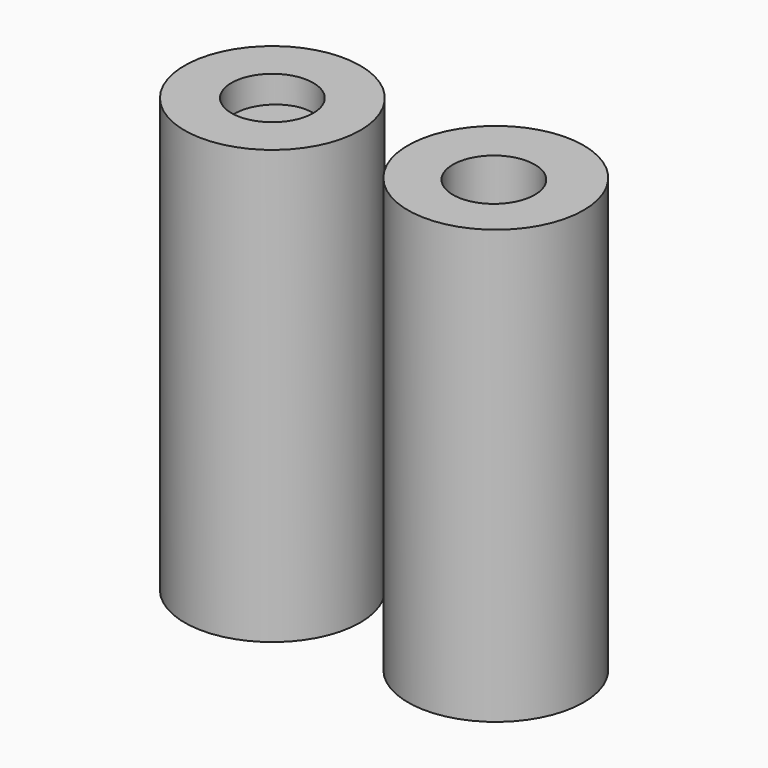
from build123d import *

# Parameters (mm, degrees)
F0_R     = 30.035558
F0_R_2   = 14.003805
F1_DEPTH = 148.17244
F2_R     = 12.834035
F3_DEPTH = 131.58179
F2_R_2   = 14.003141
F4_DEPTH = 139.11495


with BuildPart() as f1:
    # F0 (on Top) → F1 (new body)
    with BuildSketch(Plane.XY):
        with Locations((-35.878228, 29.898721)):
            Circle(F0_R)
        with Locations((-35.878228, 29.898721)):
            Circle(F0_R_2, mode=Mode.SUBTRACT)
        with Locations((39.54463, 31.123056)):
            Circle(F0_R)
        with Locations((39.818168, 29.95331)):
            Circle(F0_R_2, mode=Mode.SUBTRACT)
    extrude(amount=F1_DEPTH)

    # F2 (on Top) → F4 (join)
    with BuildSketch(Plane.XY):
        with Locations((-34.975421, 30.13267)):
            Circle(F2_R_2)
    extrude(amount=F4_DEPTH)


with BuildPart() as f3:
    # F2 (on Top) → F3 (new body)
    with BuildSketch(Plane.XY):
        with Locations((39.28009, 29.415226)):
            Circle(F2_R)
    extrude(amount=F3_DEPTH)


solid = Compound([f1.part, f3.part])
